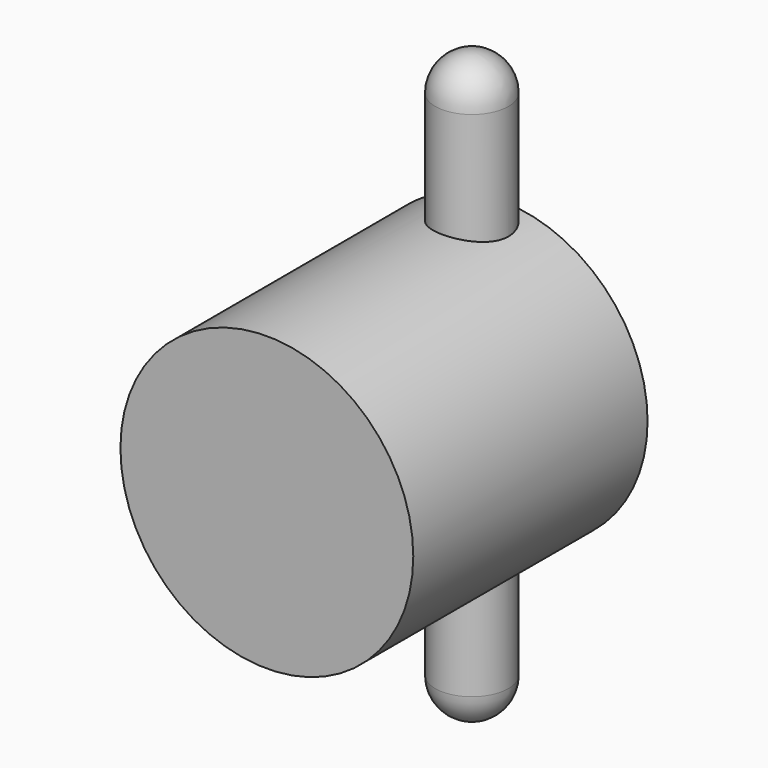
from build123d import *

# Parameters (mm, degrees)
F0_R     = 12.7
F1_DEPTH = 25.4
F2_R     = 3.175
F3_DEPTH = 25.4
F4_R     = 3.175


with BuildPart() as f1:
    # F0 (on Front) → F1 (new body)
    with BuildSketch(Plane.XZ):
        Circle(F0_R)
    extrude(amount=F1_DEPTH)

    # F2 (on Top) → F3 (join, symmetric)
    with BuildSketch(Plane.XY):
        with Locations((0, -3.175)):
            Circle(F2_R)
    extrude(amount=F3_DEPTH, both=True)

    # F4
    f4_edges = [f1.edges().sort_by_distance(p)[0] for p in [
        (-3.175, -3.175, -25.4),
        (-3.175, -3.175, 25.4),
    ]]
    fillet(f4_edges, radius=F4_R)


solid = f1.part
